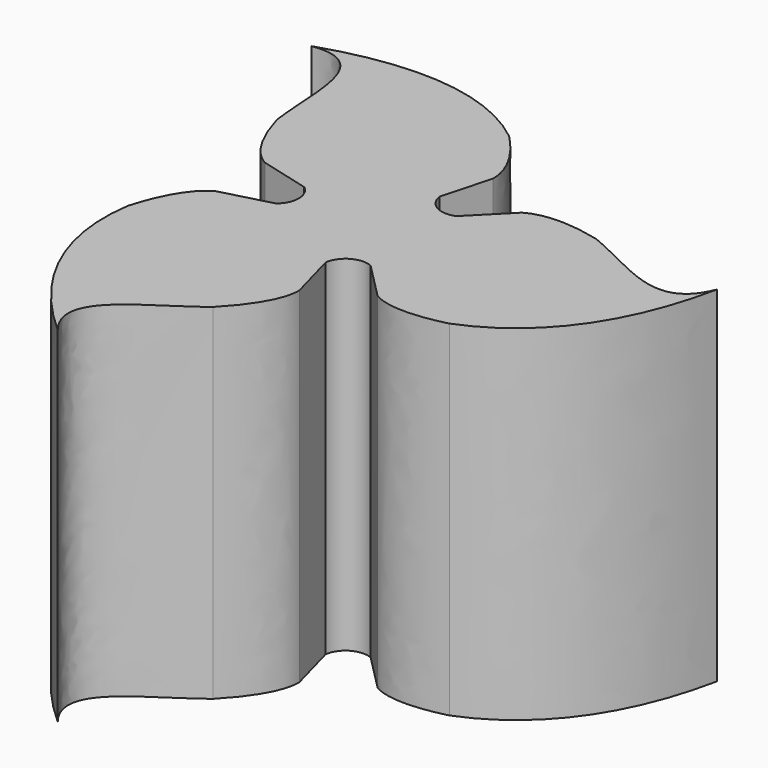
from build123d import *

# Parameters (mm, degrees)
PAD_DEPTH = 10


with BuildPart() as part:
    # InvoluteGear → Pad (new body)
    with BuildSketch(Plane.XY):
        with BuildLine():
            Line((1.489546, -1.550404), (2.542216, -2.612039))
            add(Edge.make_bspline(
                [(2.542216, -2.612039), (2.745429, -2.736985), (3.330232, -2.991658), (4.656223, -2.658727)],
                knots=[0, 0, 0, 0, 1, 1, 1, 1], degree=3))
            add(Edge.make_bspline(
                [(4.656223, -2.658727), (6.060271, -2.106027), (7.683483, -0.764768), (8.344372, 2.4318)],
                knots=[0, 0, 0, 0, 1, 1, 1, 1], degree=3))
            add(Edge.make_bspline(
                [(8.344372, 2.4318), (7.683483, 0.764768), (6.060271, 2.106027), (4.656223, 2.658727)],
                knots=[0, 0, 0, 0, 1, 1, 1, 1], degree=3))
            add(Edge.make_bspline(
                [(4.656223, 2.658727), (3.330232, 2.991658), (2.745429, 2.736985), (2.542216, 2.612039)],
                knots=[0, 0, 0, 0, 1, 1, 1, 1], degree=3))
            Line((2.542216, 2.612039), (1.489546, 1.550404))
            ThreePointArc((1.489546, 1.550404), (0.917161, 1.58857), (0.597916, 2.065187))
            Line((0.597916, 2.065187), (0.990984, 3.507643))
            add(Edge.make_bspline(
                [(0.990984, 3.507643), (0.997584, 3.746104), (0.925736, 4.379895), (-0.025587, 5.361771)],
                knots=[0, 0, 0, 0, 1, 1, 1, 1], degree=3))
            add(Edge.make_bspline(
                [(-0.025587, 5.361771), (-1.206262, 6.301362), (-3.179433, 7.036476), (-6.278187, 6.010538)],
                knots=[0, 0, 0, 0, 1, 1, 1, 1], degree=3))
            add(Edge.make_bspline(
                [(-6.278187, 6.010538), (-4.50405, 6.271708), (-4.854008, 4.195335), (-4.630636, 2.703044)],
                knots=[0, 0, 0, 0, 1, 1, 1, 1], degree=3))
            add(Edge.make_bspline(
                [(-4.630636, 2.703044), (-4.255968, 1.388236), (-3.743013, 1.009119), (-3.5332, 0.895604)],
                knots=[0, 0, 0, 0, 1, 1, 1, 1], degree=3))
            Line((-3.5332, 0.895604), (-2.087462, 0.514783))
            ThreePointArc((-2.087462, 0.514783), (-1.834323, 0), (-2.087462, -0.514783))
            Line((-2.087462, -0.514783), (-3.5332, -0.895604))
            add(Edge.make_bspline(
                [(-3.5332, -0.895604), (-3.743013, -1.009119), (-4.255968, -1.388236), (-4.630636, -2.703044)],
                knots=[0, 0, 0, 0, 1, 1, 1, 1], degree=3))
            add(Edge.make_bspline(
                [(-4.630636, -2.703044), (-4.854008, -4.195335), (-4.50405, -6.271708), (-2.066185, -8.442338)],
                knots=[0, 0, 0, 0, 1, 1, 1, 1], degree=3))
            add(Edge.make_bspline(
                [(-2.066185, -8.442338), (-3.179433, -7.036476), (-1.206262, -6.301362), (-0.025587, -5.361771)],
                knots=[0, 0, 0, 0, 1, 1, 1, 1], degree=3))
            add(Edge.make_bspline(
                [(-0.025587, -5.361771), (0.925736, -4.379895), (0.997584, -3.746104), (0.990984, -3.507643)],
                knots=[0, 0, 0, 0, 1, 1, 1, 1], degree=3))
            Line((0.990984, -3.507643), (0.597916, -2.065187))
            ThreePointArc((0.597916, -2.065187), (0.917161, -1.58857), (1.489546, -1.550404))
        make_face()
    extrude(amount=PAD_DEPTH)


solid = part.part
